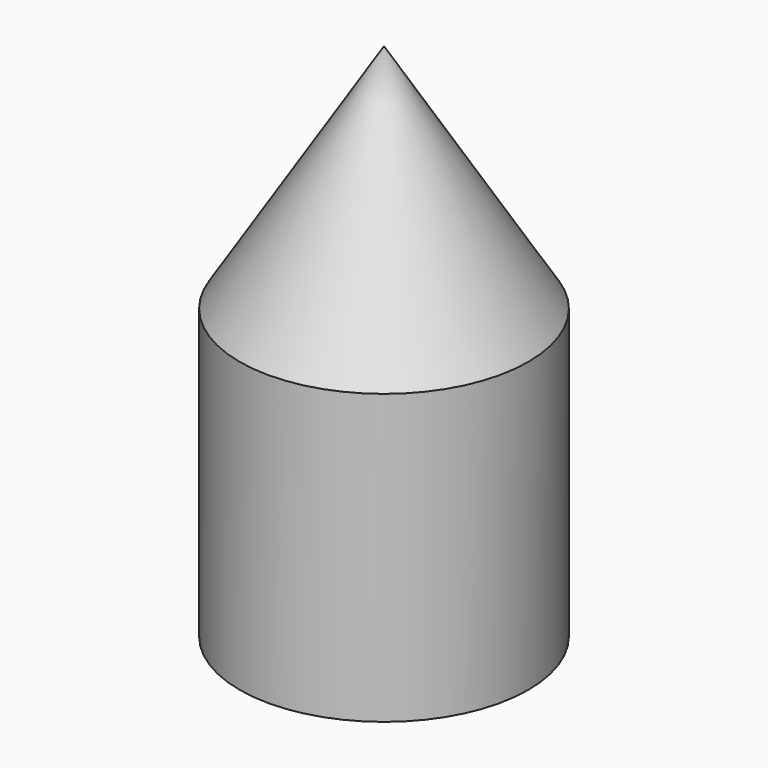
from build123d import *

# Parameters (mm, degrees)
F2_SIZE = 1.5


with BuildPart() as f1:
    # F0 (on Front) → F1 (revolve)
    with BuildSketch(Plane.XZ):
        Polygon((-10, 25), (0, 25), (0, 45), (-12.5, 25), (-12.5, 0), (-10, 0), align=None)
    revolve(axis=Axis((0, 0, 11.394946), (0, 0, -1)))

    # F2
    f2_edges = [f1.edges().sort_by_distance(p)[0] for p in [
        (10, 0, 0),
    ]]
    chamfer(f2_edges, length=F2_SIZE)


solid = f1.part
